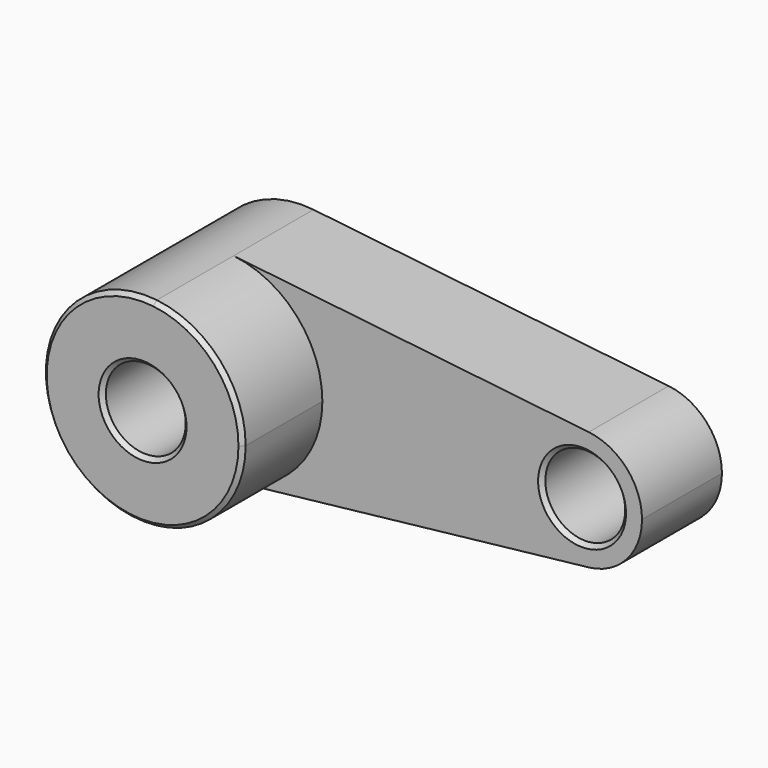
from build123d import *

# Parameters (mm, degrees)
F0_R     = 10
F1_DEPTH = 25
F2_DEPTH = 50
F3_SIZE  = 1
F4_SIZE  = 1


with BuildPart() as f1:
    # F0 (on Front) → F1 (new body)
    with BuildSketch(Plane.XZ):
        with BuildLine():
            ThreePointArc((2.777778, -24.8452), (18.6339, -16.666667), (25, 0))
            ThreePointArc((25, 0), (18.6339, 16.666667), (2.777778, 24.8452))
            ThreePointArc((2.777778, 24.8452), (-25, 0), (2.777778, -24.8452))
        make_face()
        Circle(F0_R, mode=Mode.SUBTRACT)
        with BuildLine():
            ThreePointArc((2.777778, 24.8452), (18.6339, 16.666667), (25, 0))
            ThreePointArc((25, 0), (18.6339, -16.666667), (2.777778, -24.8452))
            Line((2.777778, -24.8452), (91.666667, -14.90712))
            ThreePointArc((91.666667, -14.90712), (75, 0), (91.666667, 14.90712))
            Line((91.666667, 14.90712), (2.777778, 24.8452))
        make_face()
        with BuildLine():
            ThreePointArc((105, 0), (101.18034, 10), (91.666667, 14.90712))
            ThreePointArc((91.666667, 14.90712), (75, 0), (91.666667, -14.90712))
            ThreePointArc((91.666667, -14.90712), (101.18034, -10), (105, 0))
        make_face()
        with Locations((90, 0)):
            Circle(F0_R, mode=Mode.SUBTRACT)
    extrude(amount=F1_DEPTH)

    # F0 (on Front) → F2 (join)
    with BuildSketch(Plane.XZ):
        with BuildLine():
            ThreePointArc((2.777778, -24.8452), (18.6339, -16.666667), (25, 0))
            ThreePointArc((25, 0), (18.6339, 16.666667), (2.777778, 24.8452))
            ThreePointArc((2.777778, 24.8452), (-25, 0), (2.777778, -24.8452))
        make_face()
        Circle(F0_R, mode=Mode.SUBTRACT)
    extrude(amount=F2_DEPTH)

    # F3
    f3_edges = [f1.edges().sort_by_distance(p)[0] for p in [
        (-2.777778, -50, 24.8452),
    ]]
    chamfer(f3_edges, length=F3_SIZE)

    # F4
    f4_edges = [f1.edges().sort_by_distance(p)[0] for p in [
        (80, -25, 0),
        (-10, -50, 0),
    ]]
    chamfer(f4_edges, length=F4_SIZE)


solid = f1.part
